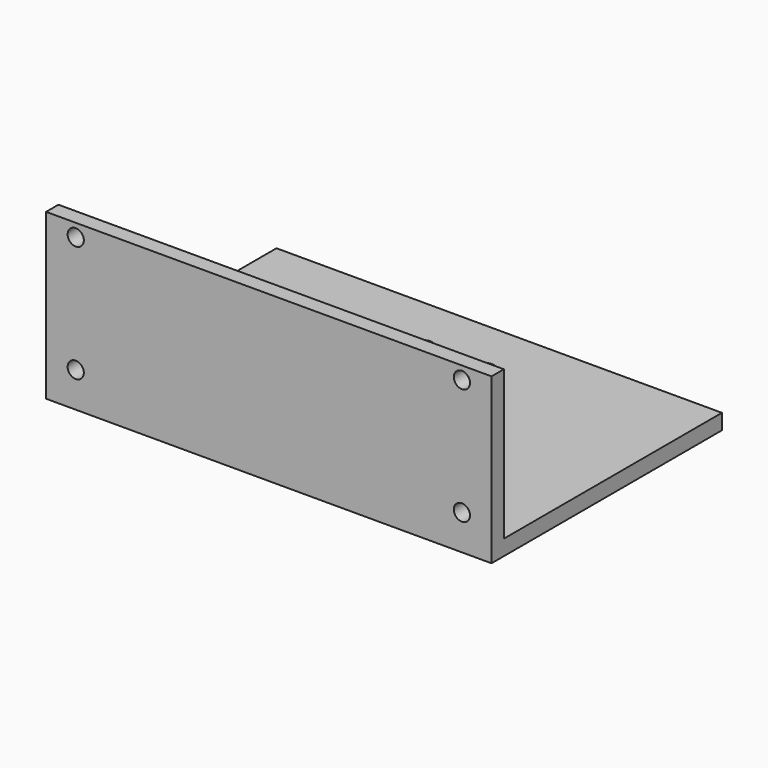
from build123d import *

# Parameters (mm, degrees)
F0_W     = 275.00072
F0_H     = 101.6
F1_DEPTH = 177.8
F2_R     = 5
F3_DEPTH = 25
F4_W     = 168.275
F4_H     = 92.075
F5_DEPTH = 275.00172
F6_R     = 5
F7_DEPTH = 25.4


with BuildPart() as f1:
    # F0 (on Front) → F1 (new body)
    with BuildSketch(Plane.XZ):
        with Locations((-10.94948, -102.961591)):
            Rectangle(F0_W, F0_H)
    extrude(amount=F1_DEPTH)

    # F2 (on face) → F3 (cut)
    with BuildSketch(Plane.XZ.offset(177.8)):
        with Locations((-130.14984, -60.073791)):
            Circle(F2_R)
        with Locations((-130.14984, -132.073791)):
            Circle(F2_R)
        with Locations((108.25088, -132.073791)):
            Circle(F2_R)
        with Locations((108.25088, -60.073791)):
            Circle(F2_R)
    extrude(amount=-F3_DEPTH, mode=Mode.SUBTRACT)

    # F4 (on face) → F5 (cut, through all)
    with BuildSketch(Plane(origin=(-148.44984, 0, 0), x_dir=(0, -1, 0), z_dir=(-1, 0, 0))):
        with Locations((84.1375, -98.199091)):
            Rectangle(F4_W, F4_H)
    extrude(amount=-F5_DEPTH, mode=Mode.SUBTRACT)

    # F6 (on face) → F7 (cut)
    with BuildSketch(Plane(origin=(0, 0, -153.761591), x_dir=(1, 0, 0), z_dir=(0, 0, -1))):
        with Locations((8.10052, 34.4795)):
            Circle(F6_R)
        with Locations((-29.99948, 34.4795)):
            Circle(F6_R)
    extrude(amount=-F7_DEPTH, mode=Mode.SUBTRACT)


solid = f1.part
